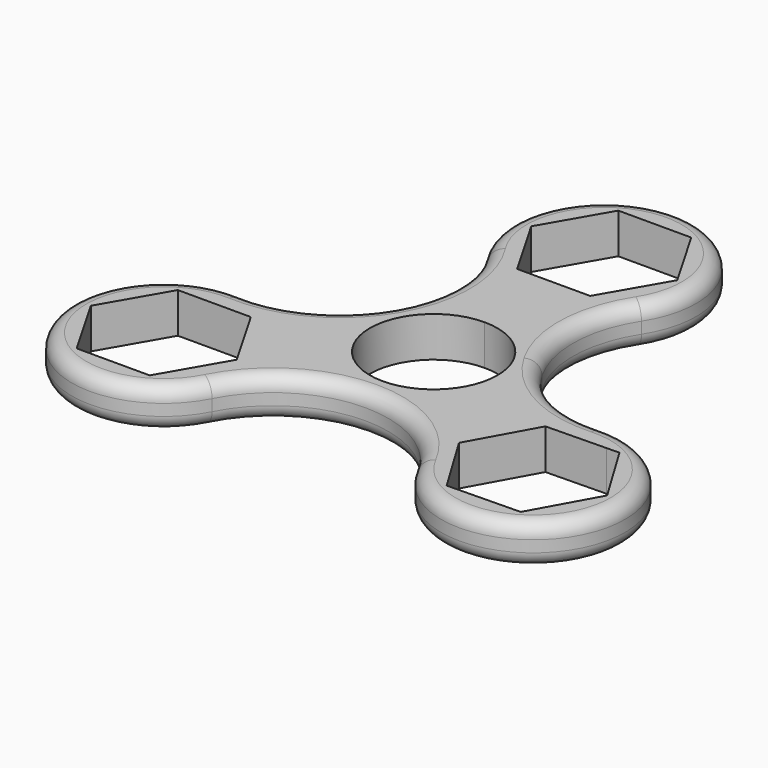
from build123d import *

# Parameters (mm, degrees)
F1_DEPTH = 7
F2_R     = 2.5
F3_R     = 2.5


with BuildPart() as f1:
    # F0 (on Top) → F1 (new body)
    with BuildSketch(Plane.XY):
        with BuildLine():
            ThreePointArc((31.327672, -2.570105), (20.706606, -0.152215), (12.907377, 7.452078))
            ThreePointArc((12.907377, 7.452078), (10.221426, 18.006415), (13.435736, 28.412019))
            ThreePointArc((13.435736, 28.412019), (0, 53.1), (-13.435736, 28.412019))
            ThreePointArc((-13.435736, 28.412019), (-12.907377, 7.452078), (-31.323398, -2.570321))
            ThreePointArc((-31.323398, -2.570321), (-45.98575, -26.550344), (-17.8873, -25.84099))
            ThreePointArc((-17.8873, -25.84099), (0.003816, -14.90065), (17.895065, -25.840774))
            ThreePointArc((17.895065, -25.840774), (45.994326, -26.548397), (31.327672, -2.570105))
        make_face()
        Polygon((-38.480395, -29.55), (-44.831248, -18.55), (-38.480395, -7.55), (-25.77869, -7.55), (-19.427837, -18.55), (-25.77869, -29.55), align=None, mode=Mode.SUBTRACT)
        with BuildLine():
            ThreePointArc((0, -11.1), (-11.1, 0), (0, 11.1))
            ThreePointArc((0, 11.1), (5.55, 9.612882), (9.612882, 5.55))
            ThreePointArc((9.612882, 5.55), (10.721777, 2.872891), (11.1, 0))
            ThreePointArc((11.1, 0), (7.848885, -7.848885), (0, -11.1))
        make_face(mode=Mode.SUBTRACT)
        Polygon((36.045783, -7.474326), (38.280562, -7.432388), (44.836689, -18.311291), (41.728522, -23.935946), (38.693346, -29.428515), (25.993876, -29.666836), (19.437749, -18.787933), (25.574427, -7.68277), (25.581092, -7.670709), align=None, mode=Mode.SUBTRACT)
        Polygon((6.350853, 48.1), (12.701706, 37.1), (6.350853, 26.1), (-6.350853, 26.1), (-12.701706, 37.1), (-6.350853, 48.1), align=None, mode=Mode.SUBTRACT)
    extrude(amount=F1_DEPTH)

    # F2
    f2_edges = [f1.edges().sort_by_distance(p)[0] for p in [
        (45.994326, -26.548397, 7),
    ]]
    fillet(f2_edges, radius=F2_R)

    # F3
    f3_edges = [f1.edges().sort_by_distance(p)[0] for p in [
        (-45.98575, -26.550344, 0),
    ]]
    fillet(f3_edges, radius=F3_R)


solid = f1.part
